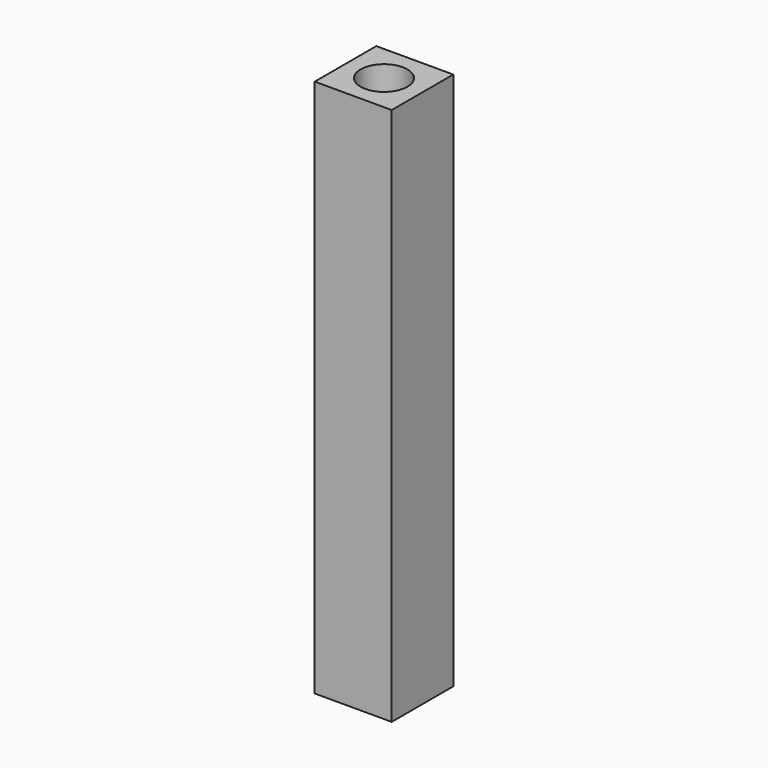
from build123d import *

# Parameters (mm, degrees)
F0_W     = 10
F0_H     = 10
F1_DEPTH = 70
F3_D     = 6.1
F3_DEPTH = 1000


with BuildPart() as f1:
    # F0 (on Top) → F1 (new body)
    with BuildSketch(Plane.XY):
        Rectangle(F0_W, F0_H)
    extrude(amount=F1_DEPTH)

    # F3
    with Locations(Plane.XY.offset(70)):
        with Locations((0, 0)):
            Hole(F3_D / 2, depth=F3_DEPTH)


solid = f1.part
